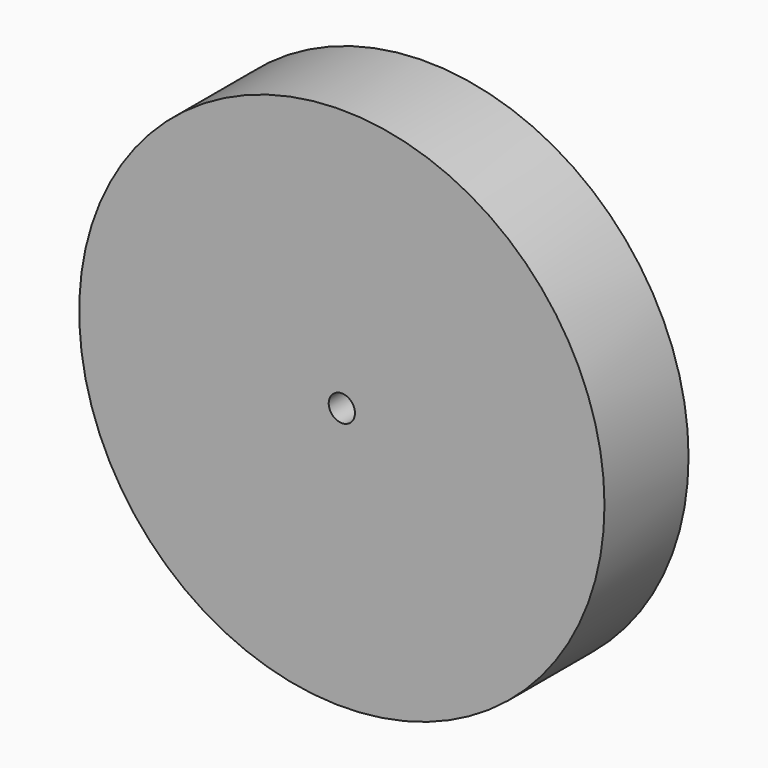
from build123d import *

# Parameters (mm, degrees)
F0_R     = 63.5
F1_DEPTH = 25.4
F4_R     = 3.175
F5_DEPTH = 12.7
F6_R     = 3.175
F7_DEPTH = 12.7


with BuildPart() as f1:
    # F0 (on Front) → F1 (new body)
    with BuildSketch(Plane.XZ):
        Circle(F0_R)
    extrude(amount=F1_DEPTH)

    # F4 (on face) → F5 (cut)
    with BuildSketch(Plane.XZ.offset(25.4)):
        Circle(F4_R)
    extrude(amount=-F5_DEPTH, mode=Mode.SUBTRACT)

    # F6 (on face) → F7 (cut)
    with BuildSketch(Plane(origin=(0, 0, 0), x_dir=(-1, 0, 0), z_dir=(0, 1, 0))):
        with Locations((-12.7, 0)):
            Circle(F6_R)
        with Locations((12.7, 0)):
            Circle(F6_R)
    extrude(amount=-F7_DEPTH, mode=Mode.SUBTRACT)


solid = f1.part
